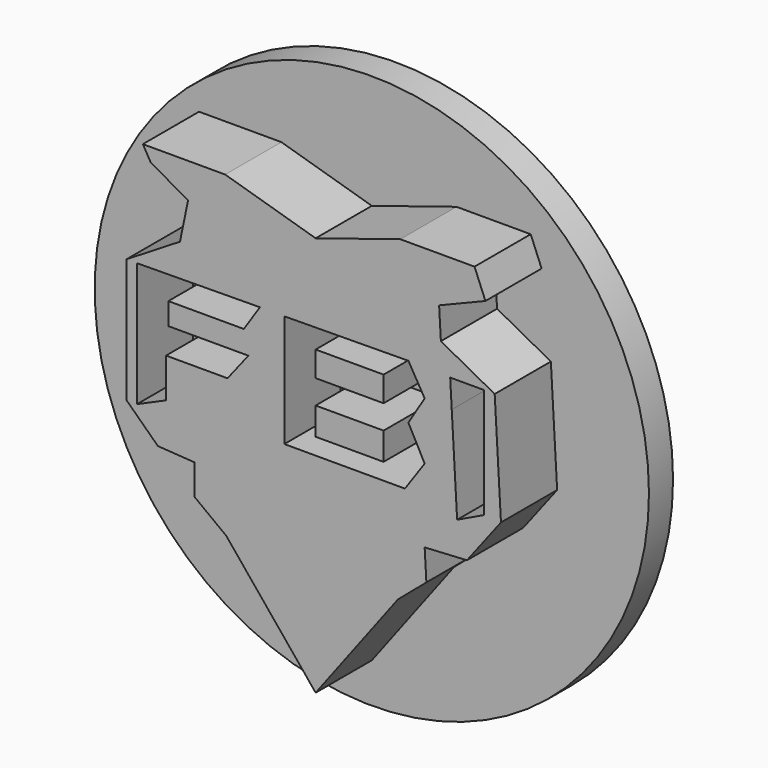
from build123d import *

# Parameters (mm, degrees)
F1_DEPTH = 25.4
F2_W     = 17.202688
F2_H     = 6.38533
F2_H_2   = 6.965813
F3_DEPTH = 25.4
F4_R     = 70.169766
F5_DEPTH = 7.62


with BuildPart() as f1:
    # F0 (on Front) → F1 (new body)
    with BuildSketch(Plane.XZ):
        Polygon((-41.738379, 44.55284), (-32.297615, 39.19756), (-16.148807, 40.111645), (-9.534805, 35.702311), (0, 41.252863), (-22.901945, 48.006002), (-43.748587, 48.006002), align=None)
        Polygon((21.433871, 48.006002), (0, 41.252863), (4.123883, 34.168806), (16.442424, 39.19756), (31.0597, 40.024954), (31.261035, 36.468045), (42.982022, 41.252863), (40.225212, 48.006002), align=None)
        Polygon((-16.148807, 40.111645), (-32.297615, 39.19756), (-34.344808, 29.317717), (-47.89209, 20.993449), (-47.89209, -10.406893), (-39.931595, -18.057304), (-30.694175, -18.663923), (-30.694175, -26.337028), (-22.60833, -32.444421), (0, -60.044203), (20.846643, -32.444421), (28.034105, -26.337028), (27.599778, -18.663923), (38.316717, -18.057304), (46.919027, -6.822597), (45.327913, 21.287065), (31.704862, 28.627119), (31.261035, 36.468045), (31.0597, 40.024954), (16.442424, 39.19756), (4.123883, 34.168806), (-2.920803, 31.292978), (-9.534805, 35.702311), align=None)
        Polygon((-45.216661, 20.993449), (-14.093505, 21.287065), (-18.20411, 15.121156), (-37.289064, 15.121156), (-37.289064, 9.542477), (-17.029652, 9.542477), (-22.314716, 2.789339), (-32.297615, 2.789339), (-37.876293, 2.789339), (-37.876293, -7.19356), (-45.216661, -10.423321), (-45.216661, 19.489946), align=None, mode=Mode.SUBTRACT)
        Polygon((-7.927598, 7.780789), (-7.927598, 21.287065), (23.489174, 21.580677), (27.599778, 14.533926), (23.489174, 7.780789), (27.599778, 0), (22.60833, -7.19356), (-7.927598, -7.19356), align=None, mode=Mode.SUBTRACT)
        Polygon((35.820995, -9.836092), (34.456904, 14.262817), (34.059305, 21.287065), (42.57413, 21.287065), (42.57413, -6.606331), align=None, mode=Mode.SUBTRACT)
        Polygon((0, 41.252863), (-9.534805, 35.702311), (-2.920803, 31.292978), (4.123883, 34.168806), align=None)
        Polygon((-16.148807, 40.111645), (-32.297615, 39.19756), (-34.344808, 29.317717), (-47.89209, 20.993449), (-47.89209, -10.406893), (-39.931595, -18.057304), (-30.694175, -18.663923), (-30.694175, -26.337028), (-22.60833, -32.444421), (0, -60.044203), (20.846643, -32.444421), (28.034105, -26.337028), (27.599778, -18.663923), (38.316717, -18.057304), (46.919027, -6.822597), (45.327913, 21.287065), (31.704862, 28.627119), (31.261035, 36.468045), (31.0597, 40.024954), (16.442424, 39.19756), (4.123883, 34.168806), (-2.920803, 31.292978), (-9.534805, 35.702311), align=None)
        Polygon((-45.216661, 20.993449), (-14.093505, 21.287065), (-18.20411, 15.121156), (-37.289064, 15.121156), (-37.289064, 9.542477), (-17.029652, 9.542477), (-22.314716, 2.789339), (-32.297615, 2.789339), (-37.876293, 2.789339), (-37.876293, -7.19356), (-45.216661, -10.423321), (-45.216661, 19.489946), align=None, mode=Mode.SUBTRACT)
        Polygon((-7.927598, 7.780789), (-7.927598, 21.287065), (23.489174, 21.580677), (27.599778, 14.533926), (23.489174, 7.780789), (27.599778, 0), (22.60833, -7.19356), (-7.927598, -7.19356), align=None, mode=Mode.SUBTRACT)
        Polygon((35.820995, -9.836092), (34.456904, 14.262817), (34.059305, 21.287065), (42.57413, 21.287065), (42.57413, -6.606331), align=None, mode=Mode.SUBTRACT)
    extrude(amount=F1_DEPTH)


with BuildPart() as f3:
    # F2 (on Front) → F3 (new body)
    with BuildSketch(Plane.XZ):
        with Locations((8.601344, 13.263505)):
            Rectangle(F2_W, F2_H)
        with Locations((8.601344, 0.492846)):
            Rectangle(F2_W, F2_H_2)
    extrude(amount=F3_DEPTH)


with BuildPart() as f5:
    # F4 (on Front) → F5 (new body)
    with BuildSketch(Plane.XZ):
        Circle(F4_R)
    extrude(amount=F5_DEPTH)


solid = Compound([f1.part, f3.part, f5.part])
